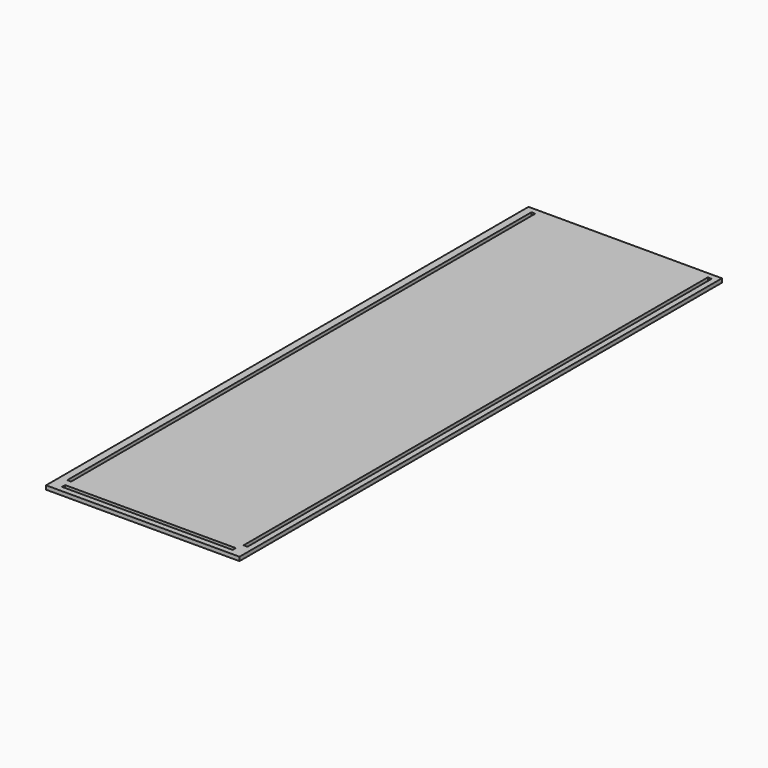
from build123d import *

# Parameters (mm, degrees)
F0_W     = 8.73125
F0_H     = 1295.4
F1_DEPTH = 8.73125


with BuildPart() as f1:
    # F0 (on Top) → F1 (new body)
    with BuildSketch(Plane.XY):
        Polygon((215.9, 673.1), (-215.9, 673.1), (-215.9, -673.1), (0, -673.1), (215.9, -673.1), (215.9, 74.258551), align=None)
        Polygon((190.5, -660.4), (0, -660.4), (-190.5, -660.4), (-190.5, -651.66875), (190.5, -651.66875), align=None, mode=Mode.SUBTRACT)
        with Locations((-194.865625, 12.70608)):
            Rectangle(F0_W, F0_H, mode=Mode.SUBTRACT)
        Polygon((203.2, 660.4), (203.2, 74.258551), (203.2, -635), (194.46875, -634.99392), (194.46875, 660.4), align=None, mode=Mode.SUBTRACT)
    extrude(amount=F1_DEPTH)


solid = f1.part
